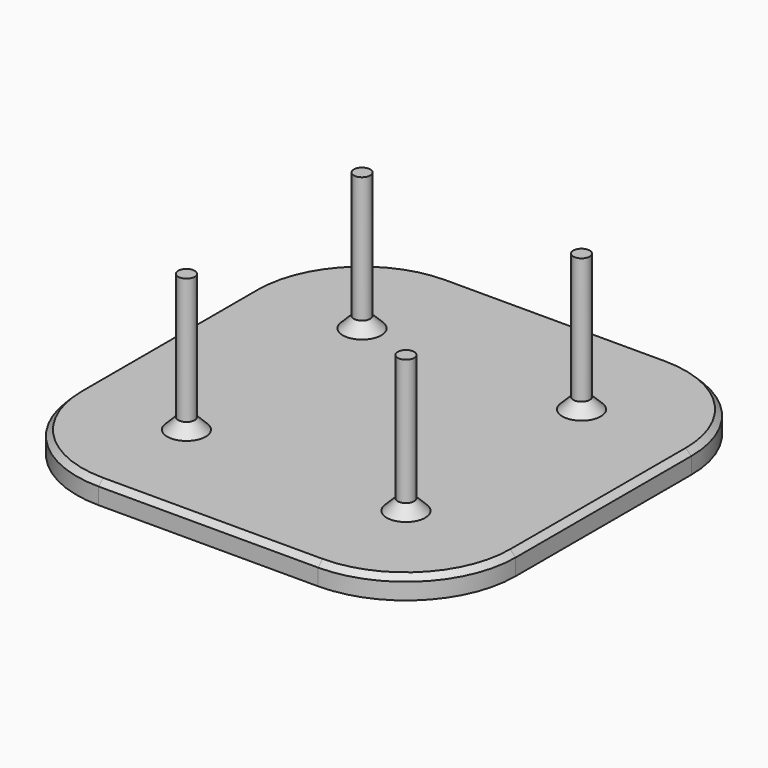
from build123d import *

# Parameters (mm, degrees)
SKETCH_W        = 80
SKETCH_H        = 80
PAD_DEPTH       = 4
SKETCH001_R     = 1.5
PAD001_DEPTH    = 25
FILLET_R        = 20
CHAMFER_SIZE    = 2
CHAMFER001_SIZE = 1


with BuildPart() as part:
    # Sketch → Pad (new body)
    with BuildSketch(Plane.XY):
        with Locations((40, 40)):
            Rectangle(SKETCH_W, SKETCH_H)
    extrude(amount=PAD_DEPTH)

    # Sketch001 (on Face6 of Pad) → Pad001 (join)
    with BuildSketch(Plane.XY.offset(4)):
        with Locations((20, 60)):
            Circle(SKETCH001_R)
        with Locations((60, 60)):
            Circle(SKETCH001_R)
        with Locations((20, 20)):
            Circle(SKETCH001_R)
        with Locations((60, 20)):
            Circle(SKETCH001_R)
    extrude(amount=PAD001_DEPTH)

    # Fillet
    fillet_edges = [part.edges().sort_by_distance(p)[0] for p in [
        (80, 0, 2),
        (80, 80, 2),
        (0, 0, 2),
        (0, 80, 2),
    ]]
    fillet(fillet_edges, radius=FILLET_R)

    # Chamfer
    chamfer_edges = [part.edges().sort_by_distance(p)[0] for p in [
        (18.5, 60, 4),
        (18.5, 20, 4),
        (58.5, 20, 4),
        (58.5, 60, 4),
    ]]
    chamfer(chamfer_edges, length=CHAMFER_SIZE)

    # Chamfer001
    chamfer001_edges = [part.edges().sort_by_distance(p)[0] for p in [
        (0, 40, 4),
        (5.857864, 5.857864, 4),
        (40, 0, 4),
        (74.142136, 5.857864, 4),
        (80, 40, 4),
        (74.142136, 74.142136, 4),
        (40, 80, 4),
        (5.857864, 74.142136, 4),
    ]]
    chamfer(chamfer001_edges, length=CHAMFER001_SIZE)


solid = part.part
